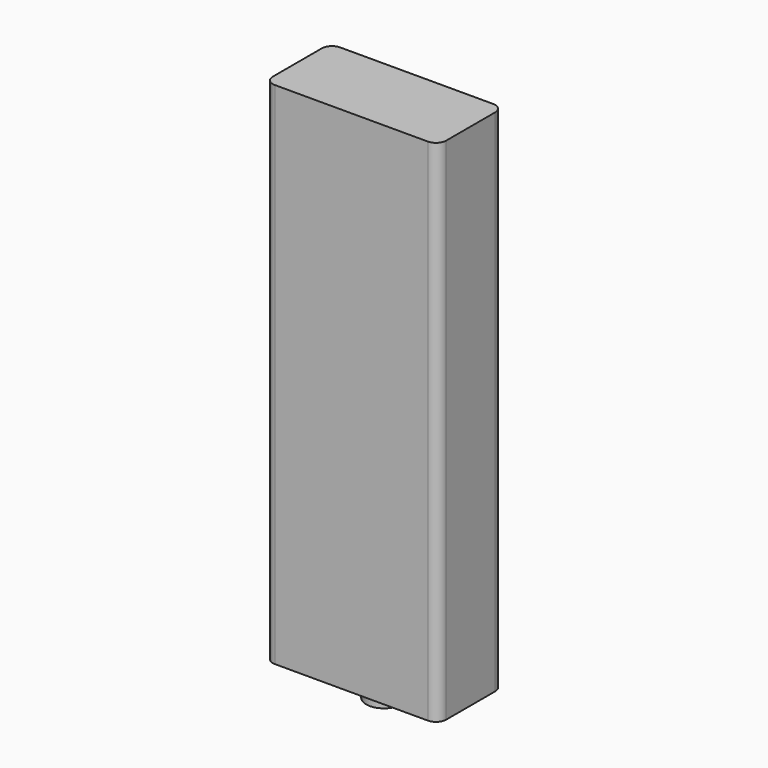
from build123d import *

# Parameters (mm, degrees)
F0_W     = 17
F0_H     = 8
F1_DEPTH = 50
F2_R     = 1.75
F3_DEPTH = 2.1
F4_R     = 1


with BuildPart() as f1:
    # F0 (on Top) → F1 (new body)
    with BuildSketch(Plane.XY):
        Rectangle(F0_W, F0_H)
    extrude(amount=F1_DEPTH)

    # F2 (on face) → F3 (join)
    with BuildSketch(Plane(origin=(0, 0, 0), x_dir=(1, 0, 0), z_dir=(0, 0, -1))):
        Circle(F2_R)
    extrude(amount=F3_DEPTH)

    # F4
    f4_edges = [f1.edges().sort_by_distance(p)[0] for p in [
        (-8.5, 4, 25),
        (8.5, 4, 25),
        (8.5, -4, 25),
        (-8.5, -4, 25),
    ]]
    fillet(f4_edges, radius=F4_R)


solid = f1.part
